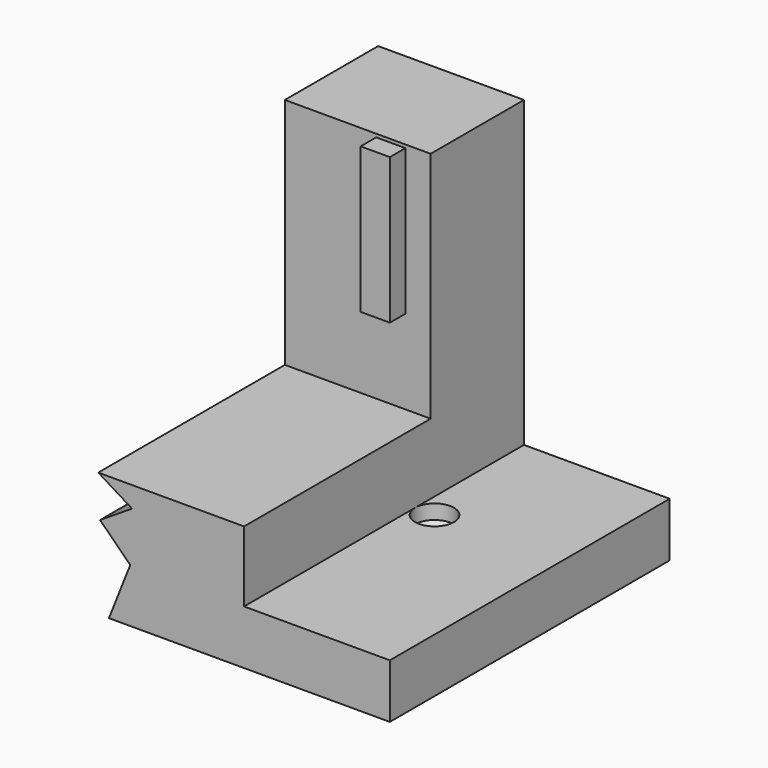
from build123d import *

# Parameters (mm, degrees)
F0_W     = 381
F0_H     = 141.7715725336
F1_DEPTH = 609.6
F0_H_2   = 609.6
F2_DEPTH = 304.8
F4_W     = 76.2
F4_H     = 50.8
F5_DEPTH = 381
F7_DEPTH = 38.1
F8_R     = 50.8
F9_DEPTH = 25.4
F9_TAPER = 60


with BuildPart() as f1:
    # F0 (on Front) → F1 (new body)
    with BuildSketch(Plane.XZ):
        Polygon((0, -184.15), (0, 0), (-381, 0), (-292.7788101229, -54.2931120234), (-376.3567831644, -107.6901625084), (-297.4220269585, -185.4641232554), (-353.1406989864, -325.9215725336), (0, -325.9215725336), align=None)
        with Locations((190.5, -255.0357862668)):
            Rectangle(F0_W, F0_H)
    extrude(amount=F1_DEPTH)

    # F0 (on Front) → F2 (join)
    with BuildSketch(Plane.XZ):
        Polygon((0, -184.15), (0, 0), (-381, 0), (-292.7788101229, -54.2931120234), (-376.3567831644, -107.6901625084), (-297.4220269585, -185.4641232554), (-353.1406989864, -325.9215725336), (0, -325.9215725336), align=None)
        with Locations((190.5, -255.0357862668)):
            Rectangle(F0_W, F0_H)
        with Locations((-190.5, 304.8)):
            Rectangle(F0_W, F0_H_2)
    extrude(amount=-F2_DEPTH)

    # F6 (on face) → F7 (cut)
    with BuildSketch(Plane.XY.offset(-184.15)):
        with BuildLine():
            ThreePointArc((0, -50.7999995777), (50.7999997889, -101.6), (101.6, -50.8))
            ThreePointArc((101.6, -50.8), (50.8000002111, 0), (0, -50.7999995777))
        make_face()
    extrude(amount=-F7_DEPTH, mode=Mode.SUBTRACT)

    # F8 (on face) → F9 (cut)
    with BuildSketch(Plane.XY.offset(-222.25)):
        with Locations((50.8, -50.8)):
            Circle(F8_R)
    extrude(amount=-F9_DEPTH, taper=F9_TAPER, mode=Mode.SUBTRACT)


with BuildPart() as f5:
    # F4 (on offset) → F5 (new body)
    with BuildSketch(Plane.XY.offset(254)):
        with Locations((-63.5, -76.2)):
            Rectangle(F4_W, F4_H)
    extrude(amount=F5_DEPTH)


solid = Compound([f1.part, f5.part])
